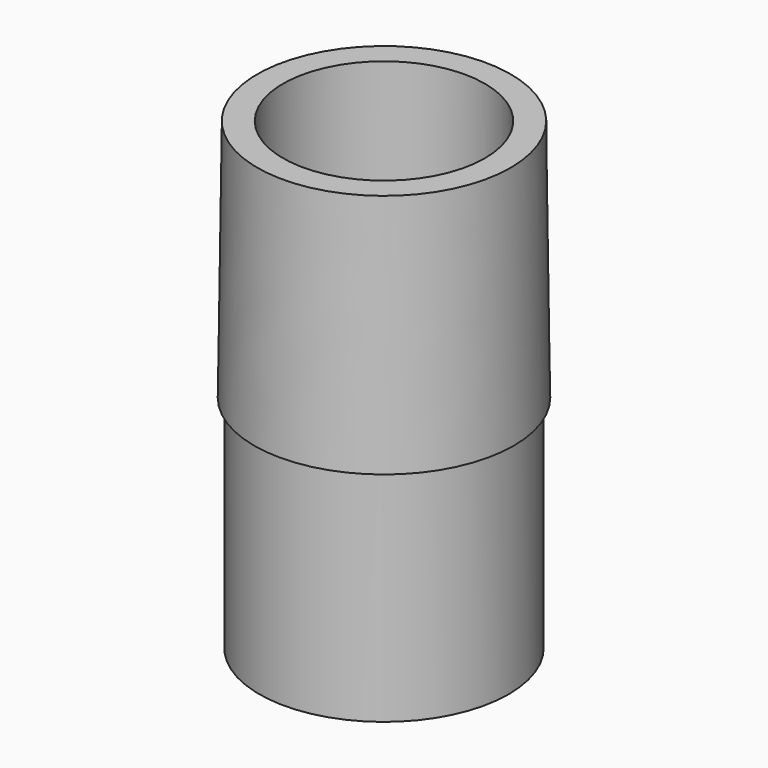
from build123d import *

# Parameters (mm, degrees)
CYLINDER005_R     = 8.7
CYLINDER005_DEPTH = 40
CYLINDER007_R     = 10.75
CYLINDER007_DEPTH = 40


with BuildPart() as outletextension:
    # Cylinder005 → Cylinder005 (new body)
    with BuildSketch(Plane.XY):
        Circle(CYLINDER005_R)
    extrude(amount=CYLINDER005_DEPTH)


with BuildPart() as housingoutlet:
    # Cylinder007 → Cylinder007 (new body)
    with BuildSketch(Plane.XY):
        Circle(CYLINDER007_R)
    extrude(amount=CYLINDER007_DEPTH)


with BuildPart() as bloweroutletadapter_v3:
    # Cone001 → Cone001 (revolve)
    with BuildSketch(Plane(origin=(0, 0, 19), x_dir=(1, 0, 0), z_dir=(0, -1, 0))):
        Polygon((0, 0), (11.19, 0), (10.92, 21), (0, 21), align=None)
    revolve(axis=Axis((0, 0, 19), (0, 0, 1)))

    # Fusion: union HousingOutlet
    add(housingoutlet.part)

    # Cut: cut OutletExtension
    add(outletextension.part, mode=Mode.SUBTRACT)


solid = bloweroutletadapter_v3.part
